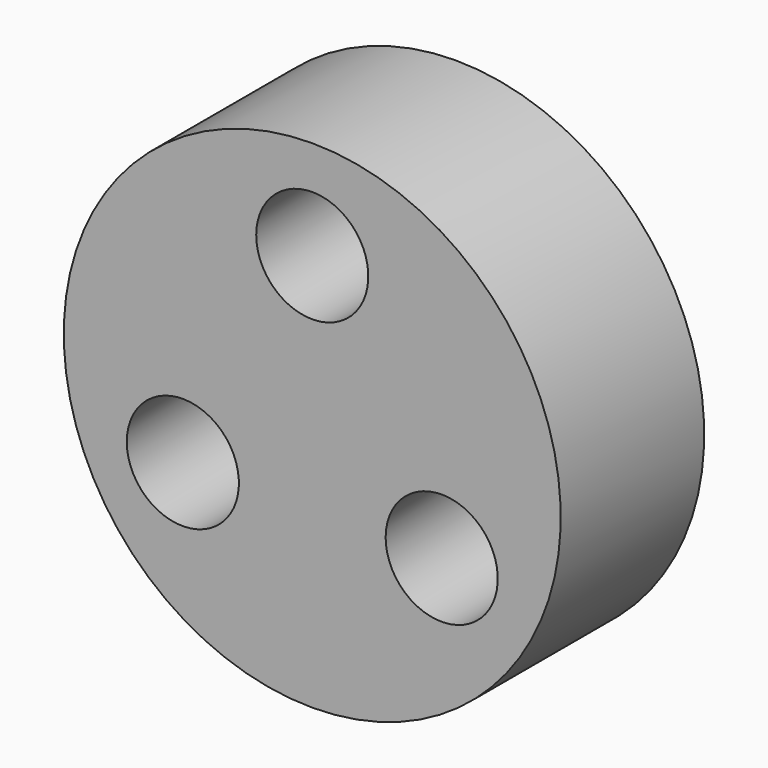
from build123d import *

# Parameters (mm, degrees)
F0_W = 7.2
F0_H = 9.975
F3_D = 4.5


with BuildPart() as f1:
    # F0 (on Right) → F1 (revolve)
    with BuildSketch(Plane.YZ):
        with Locations((-3.6, 4.9875)):
            Rectangle(F0_W, F0_H)
    revolve(axis=Axis((0, -3.6, 0), (0, 1, 0)))

    # F3 (through all)
    with Locations(Plane(origin=(0, 0, 0), x_dir=(1, 0, 0), z_dir=(0, 1, 0))):
        with Locations((0, -6), (-5.1961524227, 3), (5.1961524227, 3)):
            Hole(F3_D / 2)


solid = f1.part
